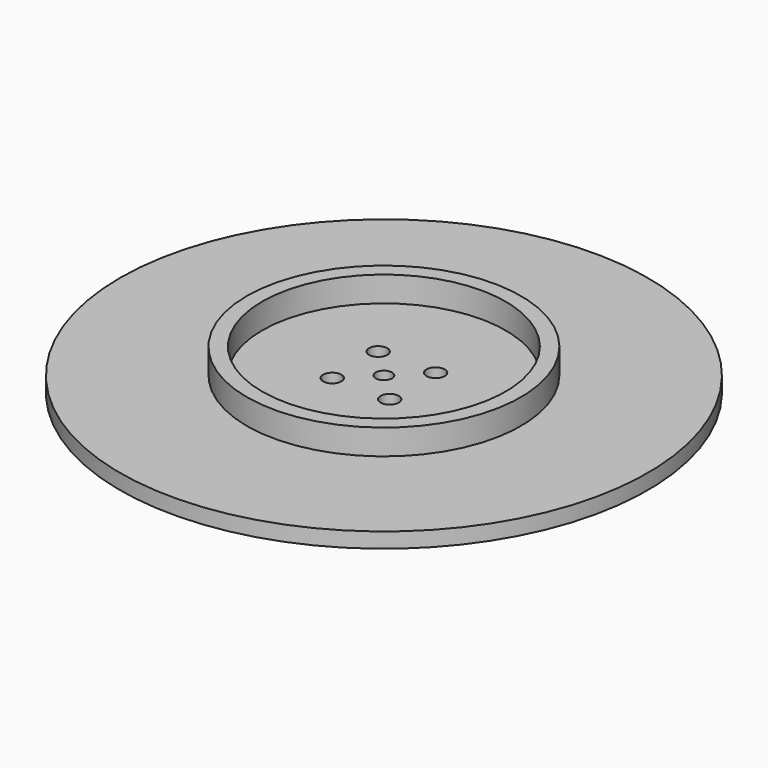
from build123d import *

# Parameters (mm, degrees)
SKETCH001_R          = 52
SKETCH001_R_2        = 1.6
PAD001_DEPTH         = 3
SKETCH_R             = 27
SKETCH_R_2           = 24
PAD_DEPTH            = 5
SKETCH002_R          = 1.8
POCKET_DEPTH         = 5
BODY_PLACEMENT_ANGLE = 180


with BuildPart() as part:
    # Sketch001 → Pad001 (new body)
    with BuildSketch(Plane.XY):
        Circle(SKETCH001_R)
        Circle(SKETCH001_R_2, mode=Mode.SUBTRACT)
    extrude(amount=-PAD001_DEPTH)

    # Sketch → Pad (join)
    with BuildSketch(Plane.XY):
        Circle(SKETCH_R)
        Circle(SKETCH_R_2, mode=Mode.SUBTRACT)
    extrude(amount=PAD_DEPTH)

    # Sketch002 → Pocket (cut)
    with BuildSketch(Plane.XY):
        with Locations((5.656854, 5.656854)):
            Circle(SKETCH002_R)
        with Locations((-5.656854, 5.656854)):
            Circle(SKETCH002_R)
        with Locations((-5.656854, -5.656854)):
            Circle(SKETCH002_R)
        with Locations((5.656854, -5.656854)):
            Circle(SKETCH002_R)
    extrude(amount=-POCKET_DEPTH, mode=Mode.SUBTRACT)


with BuildPart() as part_1:
    # Body placement: moved
    add(part.part.moved(Location((0, 0, 59))).rotate(Axis((0, 0, 59), (0, 0, -1)), BODY_PLACEMENT_ANGLE))


solid = part_1.part
